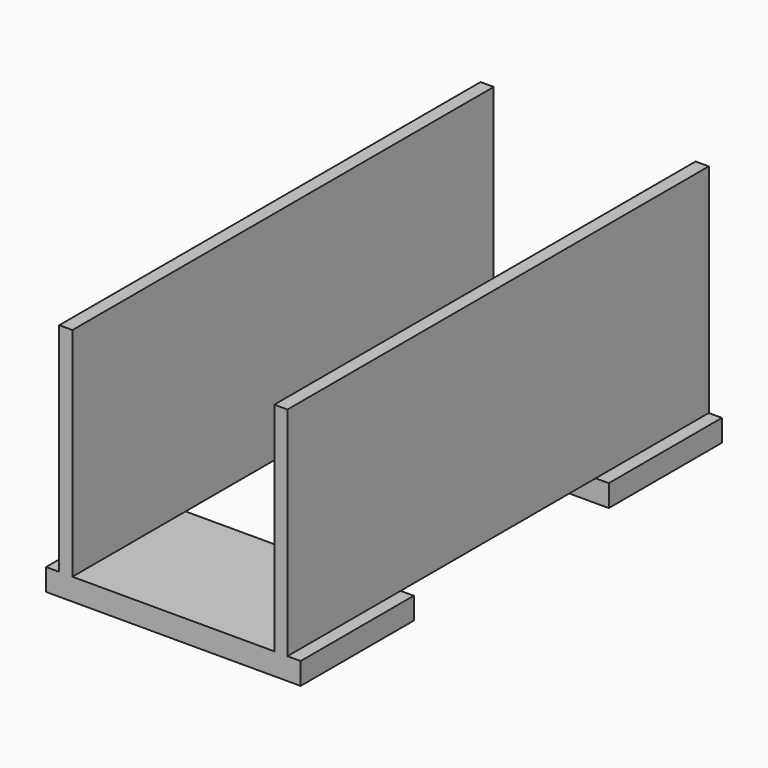
from build123d import *

# Parameters (mm, degrees)
F0_W     = 19.05
F0_H     = 314.1864430949
F1_DEPTH = 381
F2_W     = 352.679
F2_H     = 31.75
F3_DEPTH = 184.15


with BuildPart() as f1:
    # F0 (on Front) → F1 (new body, symmetric)
    with BuildSketch(Plane.XZ):
        Polygon((-184.15, 0), (0, 0), (184.15, 0), (184.15, 31.75), (165.1, 31.75), (146.05, 31.75), (-146.05, 31.75), (-165.1, 31.75), (-184.15, 31.75), align=None)
        with Locations((155.575, 188.8432215475)):
            Rectangle(F0_W, F0_H)
        with Locations((-155.575, 188.8432215475)):
            Rectangle(F0_W, F0_H)
    extrude(amount=F1_DEPTH, both=True)

    # F2 (on Right) → F3 (cut, symmetric)
    with BuildSketch(Plane.YZ):
        with Locations((0, 15.875)):
            Rectangle(F2_W, F2_H)
    extrude(amount=F3_DEPTH, both=True, mode=Mode.SUBTRACT)


solid = f1.part
